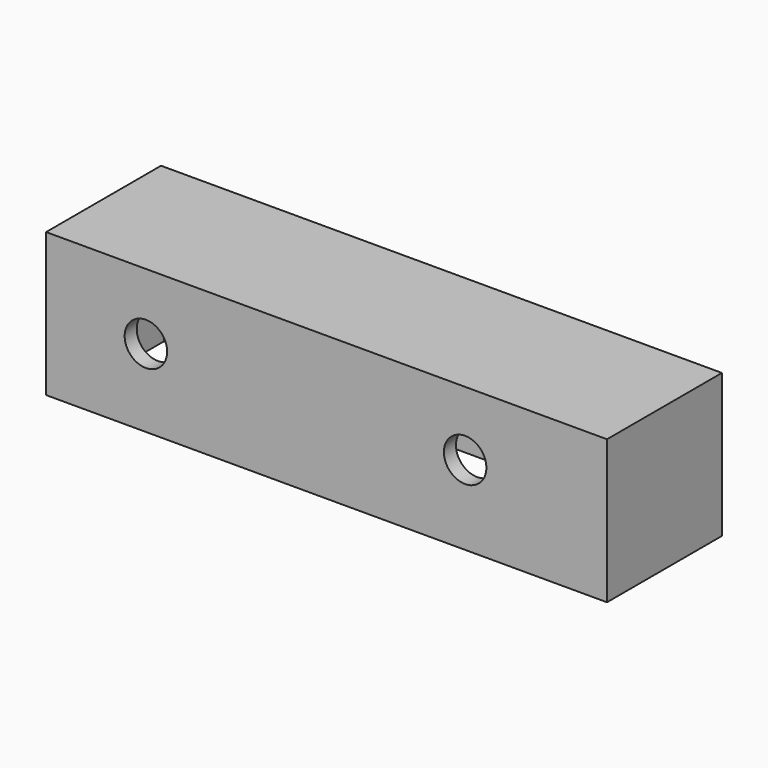
from build123d import *

# Parameters (mm, degrees)
F0_W     = 94.210912
F0_H     = 24.106908
F1_DEPTH = 24.13
F2_T     = -2.54
F4_D     = 7.1374


with BuildPart() as f1:
    # F0 (on Front) → F1 (new body)
    with BuildSketch(Plane.XZ):
        with Locations((7.966364, 8.174181)):
            Rectangle(F0_W, F0_H)
    extrude(amount=-F1_DEPTH)

    # F2
    f2_openings = [f1.faces().sort_by_distance(p)[0] for p in [
        (7.966364, 12.065, -3.879273),
    ]]
    offset(amount=F2_T, openings=f2_openings)

    # F4 (through all)
    with Locations(Plane.XZ):
        with Locations((-22.375092, 9.144), (31.242, 9.421091)):
            Hole(F4_D / 2)


solid = f1.part
